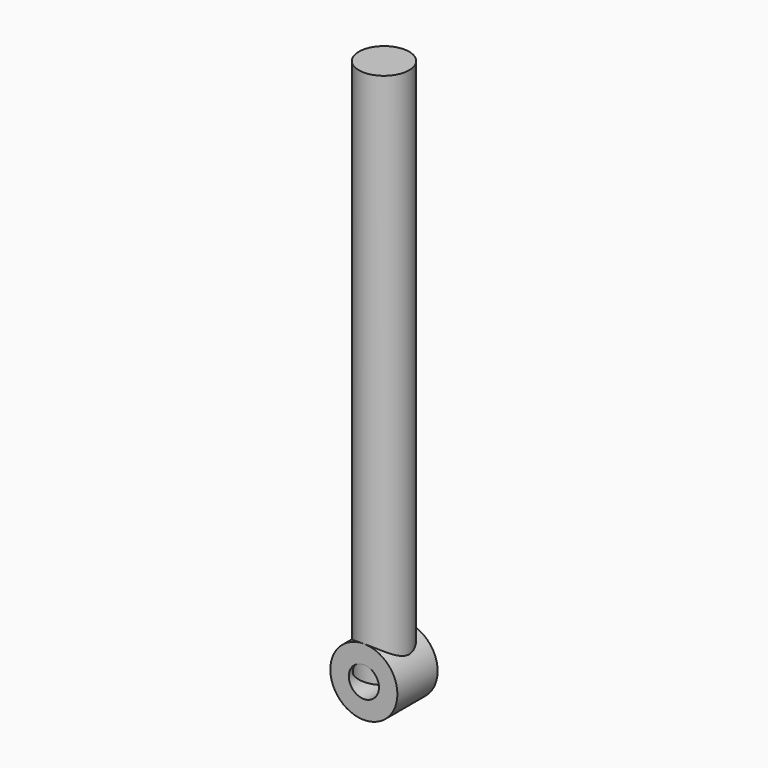
from build123d import *

# Parameters (mm, degrees)
F1_R     = 25.4
F1_R_2   = 11.43
F2_DEPTH = 19.05
F0_R     = 19.05
F3_DEPTH = 254
F4_R     = 38.1
F4_R_2   = 19.05
F5_DEPTH = 6.35
F6_DEPTH = 152.4
F7_DEPTH = 25.4


with BuildPart() as f2:
    # F1 (on Front) → F2 (new body, symmetric)
    with BuildSketch(Plane.XZ):
        Circle(F1_R)
        Circle(F1_R_2, mode=Mode.SUBTRACT)
    extrude(amount=F2_DEPTH, both=True)

    # F0 (on Top) → F3 (join)
    with BuildSketch(Plane.XY):
        Circle(F0_R)
    extrude(amount=F3_DEPTH)

    # F6 (add): a face of the model
    f6_faces = [f2.faces().sort_by_distance(p)[0] for p in [
        (0, 0, 254),
    ]]


with BuildPart() as f5:
    # F4 (on face) → F5 (new body)
    with BuildSketch(Plane.XY.offset(254)):
        Circle(F4_R)
        Circle(F4_R_2, mode=Mode.SUBTRACT)
    extrude(amount=F5_DEPTH)


with BuildPart() as f2_1:
    add(f2.part)

    add(f5.part)  # F6 merges F5
    extrude(f6_faces, amount=F6_DEPTH)

    # F7 (cut): a face of the model
    f7_faces = [f2_1.faces().sort_by_distance(p)[0] for p in [
        (-37.0223692655, 0, 260.35),
    ]]
    extrude(f7_faces, amount=-F7_DEPTH, mode=Mode.SUBTRACT)


solid = f2_1.part
